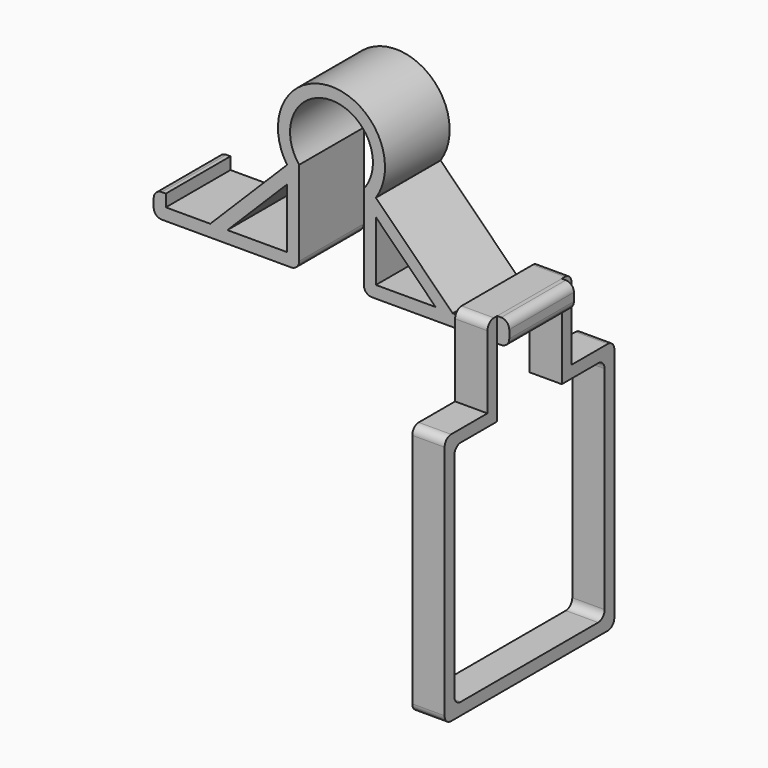
from build123d import *

# Parameters (mm, degrees)
PAD_DEPTH    = 20
FILLET001_R  = 2
PAD001_DEPTH = 8
FILLET_R     = 2


with BuildPart() as shower_mount:
    # Sketch → Pad (new body)
    with BuildSketch(Plane.XZ):
        with BuildLine():
            ThreePointArc((8, 23), (0, 39.658003), (-8, 23))
            Line((-8, 23), (-8, 3))
            Line((-8, 3), (-8, 0))
            Line((-8, 0), (-44, 0))
            Line((-44, 0), (-44, 6))
            Line((-44, 6), (-41, 6))
            Line((-41, 3), (-41, 6))
            Line((-41, 3), (-30, 3))
            Line((-11, 22), (-30, 3))
            Line((-11, 22.021359), (-11, 22))
            ThreePointArc((11, 22.021359), (0, 42.658003), (-11, 22.021359))
            Line((11, 22.021359), (11, 22))
            Line((11, 22), (30, 3))
            Line((30, 3), (41, 3))
            Line((41, 3), (41, 6))
            Line((41, 6), (44, 6))
            Line((44, 6), (44, 0))
            Line((44, 0), (8, 0))
            Line((8, 3), (8, 0))
            Line((8, 23), (8, 3))
        make_face()
        Polygon((-11, 3), (-25.757359, 3), (-11, 17.757359), align=None, mode=Mode.SUBTRACT)
        Polygon((11, 3), (25.757359, 3), (11, 17.757359), align=None, mode=Mode.SUBTRACT)
    extrude(amount=-PAD_DEPTH)

    # Fillet001
    fillet001_edges = [shower_mount.edges().sort_by_distance(p)[0] for p in [
        (44, 10, 0),
        (-44, 10, 0),
        (-8, 10, 0),
        (8, 10, 0),
        (-44, 10, 6),
        (44, 10, 6),
    ]]
    fillet(fillet001_edges, radius=FILLET001_R)


with BuildPart() as speaker_mount_bracket:
    # Sketch001 → Pad001 (new body)
    with BuildSketch(Plane.YZ.offset(33)):
        Polygon((-3, 6), (-3, -14), (-16.25, -14), (-16.25, -76.5), (36.25, -76.5), (36.25, -14), (23, -14), (23, 6), align=None)
        Polygon((-13.25, -17), (-13.25, -73.5), (33.25, -73.5), (33.25, -17), (20, -17), (20, 3), (0, 3), (0, -17), align=None, mode=Mode.SUBTRACT)
    extrude(amount=PAD001_DEPTH)

    # Fillet
    fillet_edges = [speaker_mount_bracket.edges().sort_by_distance(p)[0] for p in [
        (37, -13.25, -17),
        (37, -16.25, -14),
        (37, 33.25, -17),
        (37, 36.25, -14),
        (37, -16.25, -76.5),
        (37, -13.25, -73.5),
        (37, 33.25, -73.5),
        (37, 36.25, -76.5),
        (37, 23, 6),
        (37, -3, 6),
    ]]
    fillet(fillet_edges, radius=FILLET_R)


solid = Compound([shower_mount.part, speaker_mount_bracket.part])
